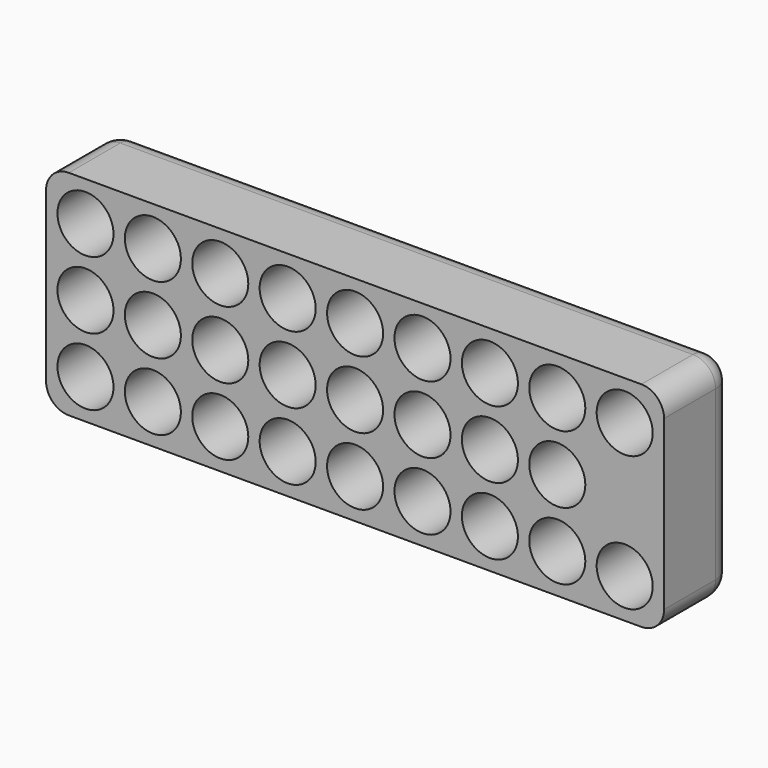
from build123d import *

# Parameters (mm, degrees)
F0_W     = 81.6
F0_H     = 28.2
F0_R     = 3.7
F1_DEPTH = 10
F2_W     = 81.6
F2_H     = 28.2
F3_DEPTH = 1.5
F4_R     = 3


with BuildPart() as f1:
    # F0 (on Front) → F1 (new body)
    with BuildSketch(Plane.XZ):
        with Locations((-3.680077, 45.012411)):
            Rectangle(F0_W, F0_H)
        with Locations((-39.280077, 36.112411)):
            Circle(F0_R, mode=Mode.SUBTRACT)
        with Locations((-30.380077, 36.112411)):
            Circle(F0_R, mode=Mode.SUBTRACT)
        with Locations((-21.480077, 36.112411)):
            Circle(F0_R, mode=Mode.SUBTRACT)
        with Locations((-12.580077, 36.112411)):
            Circle(F0_R, mode=Mode.SUBTRACT)
        with Locations((-3.680077, 36.112411)):
            Circle(F0_R, mode=Mode.SUBTRACT)
        with Locations((5.219923, 36.112411)):
            Circle(F0_R, mode=Mode.SUBTRACT)
        with Locations((14.119923, 36.112411)):
            Circle(F0_R, mode=Mode.SUBTRACT)
        with Locations((23.019923, 36.112411)):
            Circle(F0_R, mode=Mode.SUBTRACT)
        with Locations((31.919923, 36.112411)):
            Circle(F0_R, mode=Mode.SUBTRACT)
        with Locations((-39.280077, 45.012411)):
            Circle(F0_R, mode=Mode.SUBTRACT)
        with Locations((-30.380077, 45.012411)):
            Circle(F0_R, mode=Mode.SUBTRACT)
        with Locations((-21.480077, 45.012411)):
            Circle(F0_R, mode=Mode.SUBTRACT)
        with Locations((-12.580077, 45.012411)):
            Circle(F0_R, mode=Mode.SUBTRACT)
        with Locations((-39.280077, 53.912411)):
            Circle(F0_R, mode=Mode.SUBTRACT)
        with Locations((-30.380077, 53.912411)):
            Circle(F0_R, mode=Mode.SUBTRACT)
        with Locations((-21.480077, 53.912411)):
            Circle(F0_R, mode=Mode.SUBTRACT)
        with Locations((-12.580077, 53.912411)):
            Circle(F0_R, mode=Mode.SUBTRACT)
        with Locations((-3.680077, 45.012411)):
            Circle(F0_R, mode=Mode.SUBTRACT)
        with Locations((5.219923, 45.012411)):
            Circle(F0_R, mode=Mode.SUBTRACT)
        with Locations((14.119923, 45.012411)):
            Circle(F0_R, mode=Mode.SUBTRACT)
        with Locations((23.019923, 45.012411)):
            Circle(F0_R, mode=Mode.SUBTRACT)
        with Locations((31.919923, 45.012411)):
            Circle(F0_R, mode=Mode.SUBTRACT)
        with Locations((-3.680077, 53.912411)):
            Circle(F0_R, mode=Mode.SUBTRACT)
        with Locations((5.219923, 53.912411)):
            Circle(F0_R, mode=Mode.SUBTRACT)
        with Locations((14.119923, 53.912411)):
            Circle(F0_R, mode=Mode.SUBTRACT)
        with Locations((23.019923, 53.912411)):
            Circle(F0_R, mode=Mode.SUBTRACT)
        with Locations((31.919923, 53.912411)):
            Circle(F0_R, mode=Mode.SUBTRACT)
        with Locations((31.919923, 45.012411)):
            Circle(F0_R)
    extrude(amount=F1_DEPTH)

    # F2 (on face) → F3 (join)
    with BuildSketch(Plane(origin=(0, 0, 0), x_dir=(-1, 0, 0), z_dir=(0, 1, 0))):
        with Locations((3.680077, 45.012411)):
            Rectangle(F2_W, F2_H)
    extrude(amount=F3_DEPTH)

    # F4
    f4_edges = [f1.edges().sort_by_distance(p)[0] for p in [
        (-44.480077, -4.25, 30.912411),
        (-44.480077, -4.25, 59.112411),
        (37.119923, -4.25, 30.912411),
        (37.119923, -4.25, 59.112411),
        (-3.680077, 1.5, 59.112411),
        (37.119923, 1.5, 45.012411),
        (-3.680077, 1.5, 30.912411),
        (-44.480077, 1.5, 45.012411),
    ]]
    fillet(f4_edges, radius=F4_R)


solid = f1.part
